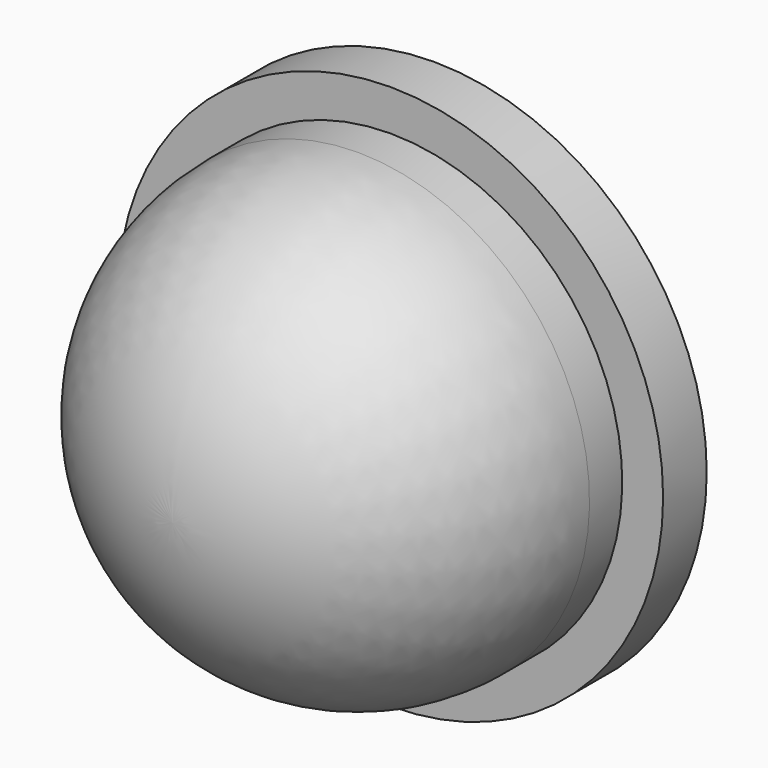
from build123d import *


with BuildPart() as f2:
    # F0 (on Right) → F2 (revolve)
    with BuildSketch(Plane.YZ):
        with BuildLine():
            Line((-12, 0), (0, 0))
            Line((0, 0), (0, 10))
            Line((0, 10), (-2, 10))
            Line((-2, 10), (-2, 8.5))
            Line((-2, 8.5), (-3.5, 8.5))
            ThreePointArc((-3.5, 8.5), (-9.510408, 6.010408), (-12, 0))
        make_face()
    revolve(axis=Axis((0, -7.72182, 0), (0, 1, 0)))


solid = f2.part
